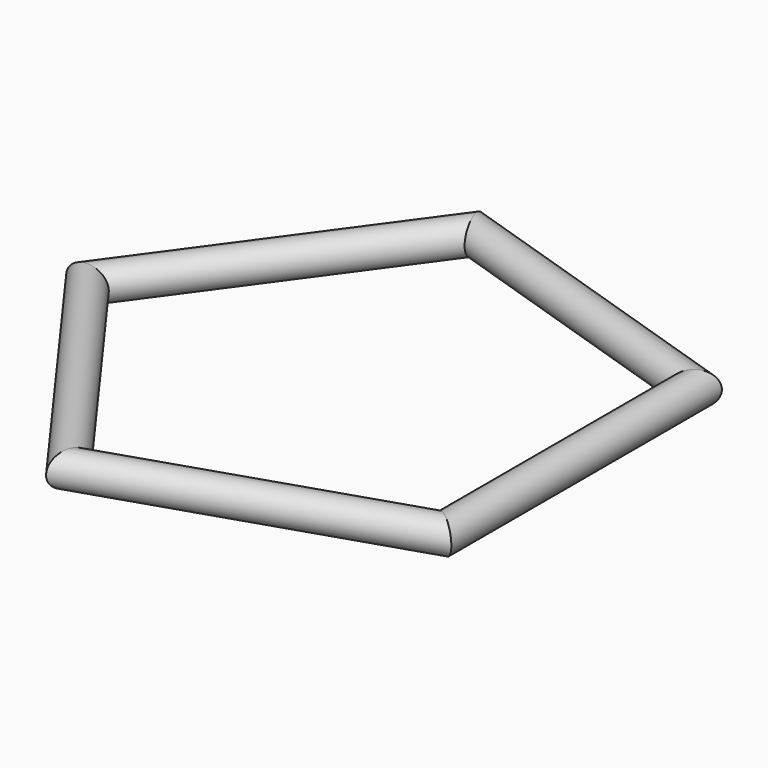
from build123d import *

# Parameters (mm, degrees)
F1_R = 4


with BuildPart() as f2:
    # F2: sweep along a path in F0
    with BuildLine(Plane.XY) as f2_path:
        Line((50, -36.3271264003), (-19.0983005625, -58.7785252292))
        Line((-19.0983005625, -58.7785252292), (-61.803398875, 0))
        Line((-61.803398875, 0), (-19.0983005625, 58.7785252292))
        Line((-19.0983005625, 58.7785252292), (50, 36.3271264003))
        Line((50, 36.3271264003), (50, -36.3271264003))
    # F1 (on Front) → F2 (sweep)
    with BuildSketch(Plane.XZ):
        with Locations((50, 0)):
            Circle(F1_R)
    sweep(path=f2_path.line, transition=Transition.RIGHT)


solid = f2.part
